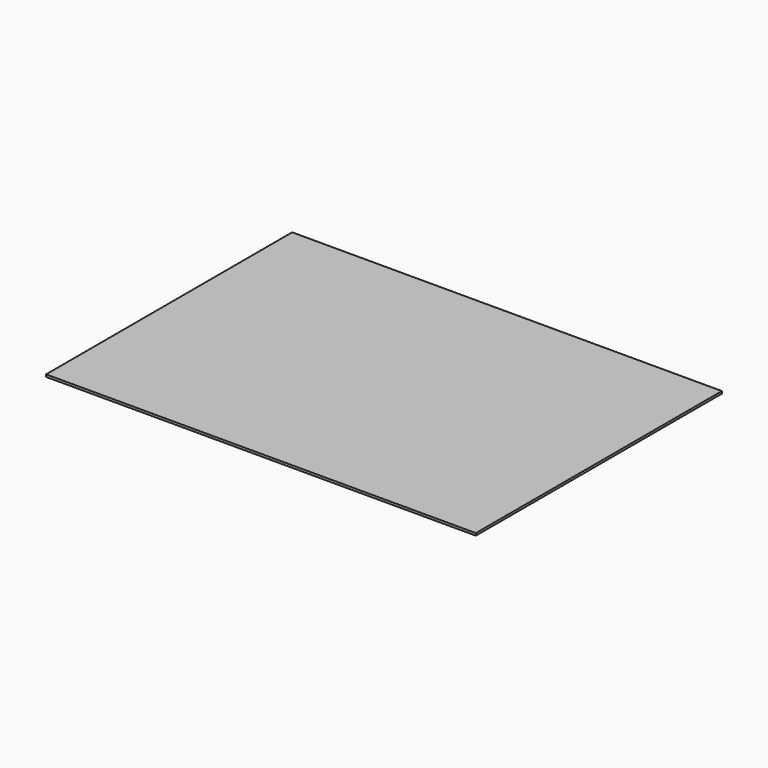
from build123d import *

# Parameters (mm, degrees)
F1_W     = 558.852182
F1_H     = 400
F2_DEPTH = 3


with BuildPart() as f2:
    # F1 (on face) → F2 (new body)
    with BuildSketch(Plane.XY):
        Rectangle(F1_W, F1_H)
    extrude(amount=F2_DEPTH)


solid = f2.part
